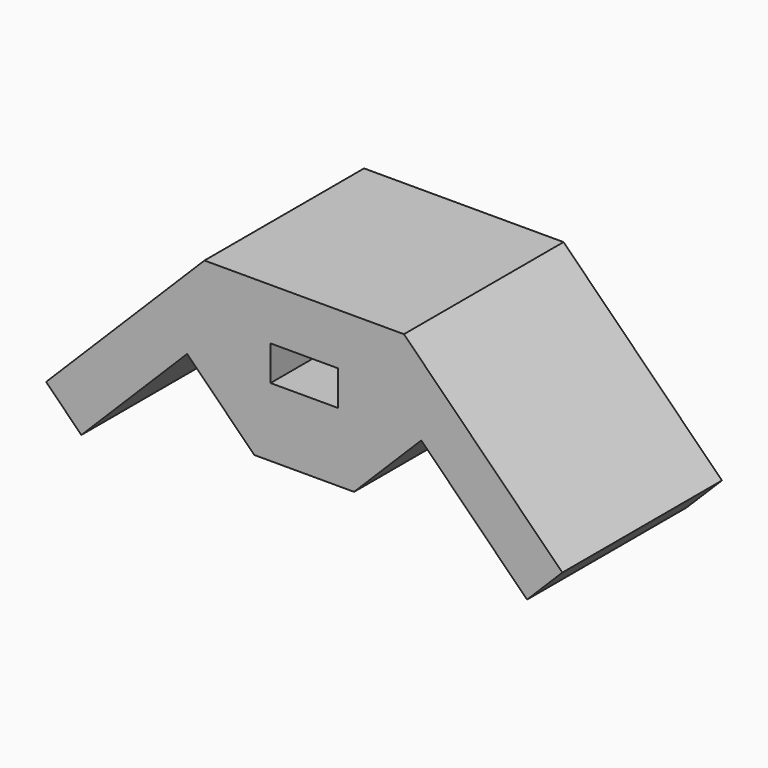
from build123d import *

# Parameters (mm, degrees)
F0_W     = 13.5
F0_H     = 7
F1_DEPTH = 40


with BuildPart() as f1:
    # F0 (on Front) → F1 (new body)
    with BuildSketch(Plane.XZ):
        Polygon((-10, 0), (0, 0), (10, 0), (23.470384, 13.470384), (44.683588, -7.742819), (51.754655, -0.671751), (20, 31.082904), (0, 31.082904), (-20, 31.082904), (-51.754655, -0.671751), (-44.683588, -7.742819), (-23.470384, 13.470384), align=None)
        with Locations((0, 17.262155)):
            Rectangle(F0_W, F0_H, mode=Mode.SUBTRACT)
    extrude(amount=F1_DEPTH)


solid = f1.part
